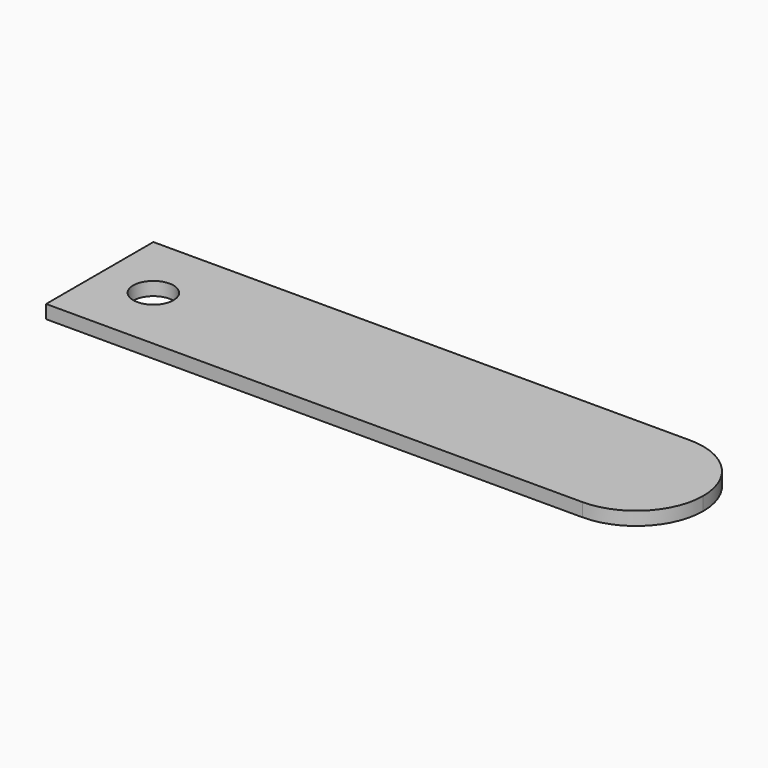
from build123d import *

# Parameters (mm, degrees)
F0_W     = 50.8
F0_H     = 12.7
F1_DEPTH = 1.27
F2_R     = 1.905
F3_DEPTH = 25.4
F5_DEPTH = 1.27


with BuildPart() as f1:
    # F0 (on Top) → F1 (new body)
    with BuildSketch(Plane.XY):
        with Locations((43.457204, -21.056446)):
            Rectangle(F0_W, F0_H)
    extrude(amount=F1_DEPTH)

    # F2 (on face) → F3 (cut)
    with BuildSketch(Plane.XY.offset(1.27)):
        with Locations((23.137204, -21.056446)):
            Circle(F2_R)
    extrude(amount=-F3_DEPTH, mode=Mode.SUBTRACT)

    # F4 (on face) → F5 (join)
    with BuildSketch(Plane.XY.offset(1.27)):
        with BuildLine():
            ThreePointArc((68.857204, -27.406446), (73.347333, -25.546575), (75.207204, -21.056446))
            ThreePointArc((75.207204, -21.056446), (73.347333, -16.566318), (68.857204, -14.706446))
            Line((68.857204, -14.706446), (68.857204, -27.406446))
        make_face()
    extrude(amount=-F5_DEPTH)


solid = f1.part
